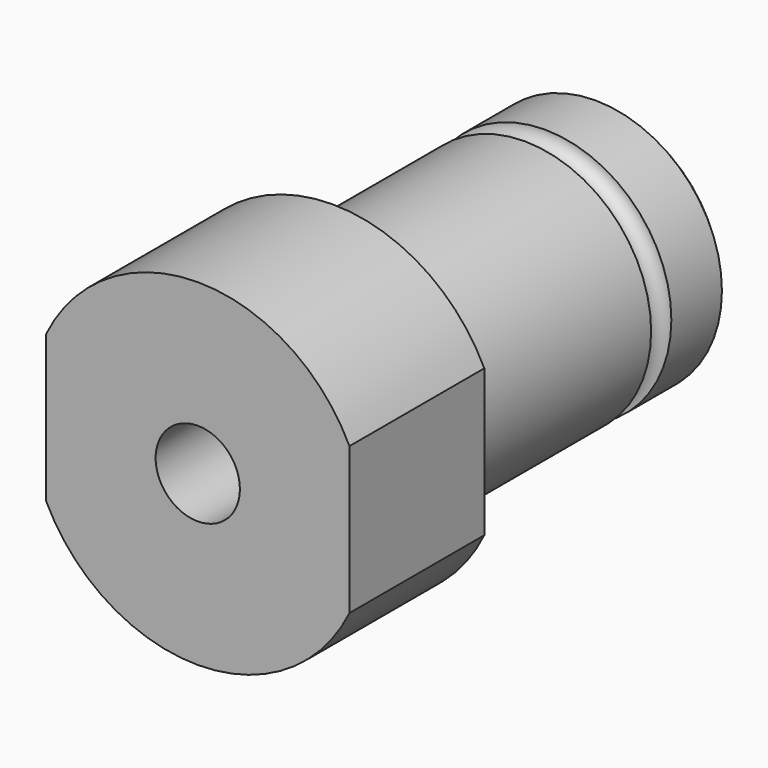
from build123d import *

# Parameters (mm, degrees)
F1_DEPTH = 20
F2_R     = 15
F3_DEPTH = 40
F4_R     = 5
F5_DEPTH = 40
F6_DEPTH = 20


with BuildPart() as f1:
    # F0 (on Front) → F1 (new body)
    with BuildSketch(Plane.XZ):
        with BuildLine():
            Line((18, 0), (18, 8.717798))
            ThreePointArc((18, 8.717798), (0, 20), (-18, 8.717798))
            Line((-18, 8.717798), (-18, 0))
            Line((-18, 0), (0, 0))
            Line((0, 0), (18, 0))
        make_face()
        with BuildLine():
            ThreePointArc((-18, -8.717798), (0, -20), (18, -8.717798))
            Line((18, -8.717798), (18, 0))
            Line((18, 0), (0, 0))
            Line((0, 0), (-18, 0))
            Line((-18, 0), (-18, -8.717798))
        make_face()
    extrude(amount=F1_DEPTH)

    # F2 (on face) → F3 (join)
    with BuildSketch(Plane.XZ):
        Circle(F2_R)
    extrude(amount=-F3_DEPTH)

    # F4 (on Front) → F5 (cut, through all)
    with BuildSketch(Plane.XZ):
        Circle(F4_R)
    extrude(amount=-F5_DEPTH, mode=Mode.SUBTRACT)

    # F4 (on Front) → F6 (cut, through all)
    with BuildSketch(Plane.XZ):
        Circle(F4_R)
    extrude(amount=F6_DEPTH, mode=Mode.SUBTRACT)

    # F7 (on Right) → F8 (revolve, cut)
    with BuildSketch(Plane.YZ):
        with BuildLine():
            Line((30, 15), (28.5, 15))
            ThreePointArc((28.5, 15), (30, 13.5), (31.5, 15))
            Line((31.5, 15), (30, 15))
        make_face()
    revolve(axis=Axis((0, 0, 0), (0, -1, 0)), mode=Mode.SUBTRACT)

    # F7 (on Right) → F9 (revolve, cut)
    with BuildSketch(Plane.YZ):
        Polygon((39, 15), (40, 14), (40, 15), align=None)
    revolve(axis=Axis((0, 0, 0), (0, -1, 0)), mode=Mode.SUBTRACT)


solid = f1.part
